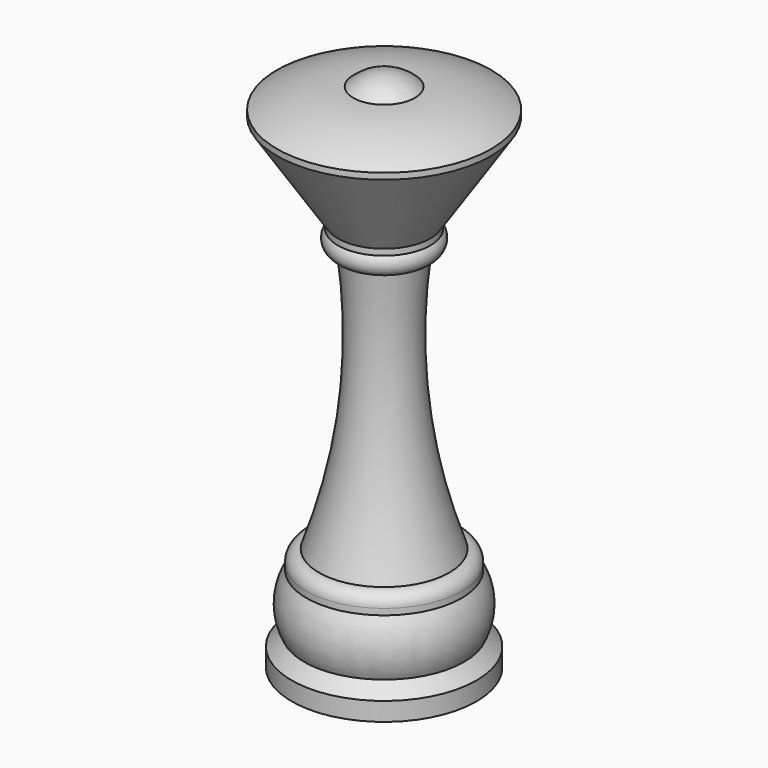
from build123d import *


with BuildPart() as f1:
    # F0 (on Front) → F1 (revolve)
    with BuildSketch(Plane.XZ):
        with BuildLine():
            ThreePointArc((5, -2), (2.692582, -0.518544), (0, 0))
            Line((0, 0), (0, -85))
            Line((0, -85), (15, -85))
            Line((15, -85), (15, -82))
            Line((15, -82), (13, -80))
            ThreePointArc((13, -80), (13.990308, -75.459329), (12.583378, -71.03))
            Line((12.583378, -71.03), (12.583378, -70.03))
            ThreePointArc((12.583378, -70.03), (11.997591, -68.615786), (10.583378, -68.03))
            ThreePointArc((10.583378, -68.03), (5.740346, -47.090601), (6, -25.6))
            ThreePointArc((6, -25.6), (7.822087, -24.424621), (7.502531, -22.28))
            Line((7.502531, -22.28), (7.502531, -21.280001))
            Line((7.502531, -21.280001), (17.37908, -6.280001))
            Line((17.37908, -6.280001), (17.37908, -5.280001))
            ThreePointArc((17.37908, -5.280001), (11.403125, -2.833908), (5, -2))
        make_face()
    revolve(axis=Axis((0, 0, -42.5), (0, 0, -1)))


solid = f1.part
